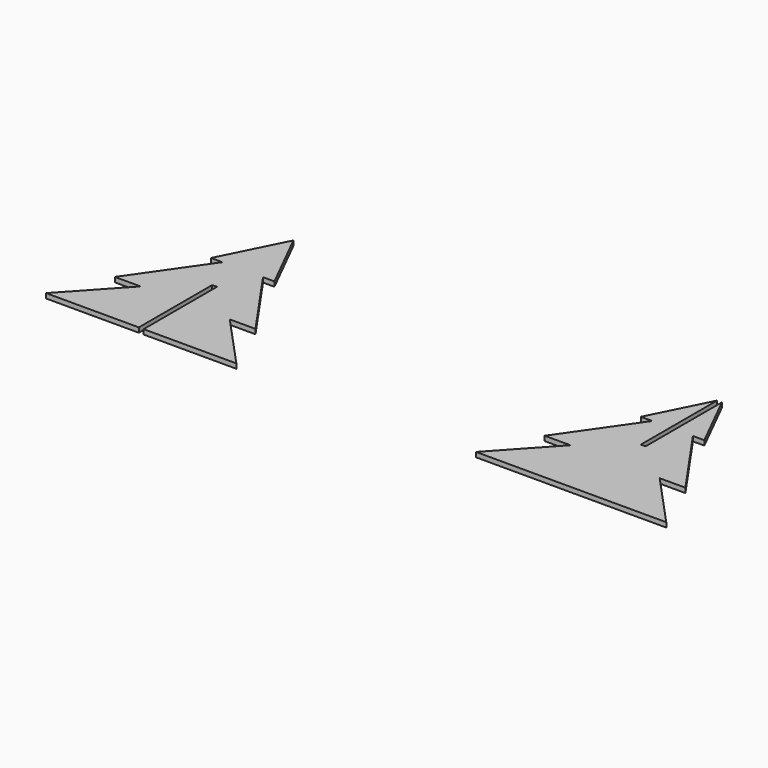
from build123d import *

# Parameters (mm, degrees)
F1_DEPTH = 1.5


with BuildPart() as f1:
    # F0 (on Top) → F1 (new body)
    with BuildSketch(Plane.XY):
        Polygon((-125.559425, 40), (-134.809425, 58.5), (-135.559425, 60), (-136.309425, 58.5), (-145.559425, 40), (-141.961627, 40), (-157.742291, 17.309345), (-149.633068, 17.309345), (-165.559425, 0), (-136.309425, 0), (-136.309425, 28.654673), (-136.309425, 28.904673), (-134.809425, 28.904673), (-134.809425, 28.654673), (-134.809425, 0), (-105.559425, 0), (-121.485782, 17.309345), (-113.376558, 17.309345), (-129.157222, 40), align=None)
        Polygon((-30, 0), (0, 0), (30, 0), (14.073643, 17.309345), (22.182867, 17.309345), (6.402202, 40), (10, 40), (0.75, 58.5), (0.75, 28.654673), (0.75, 28.404673), (-0.75, 28.404673), (-0.75, 28.654673), (-0.75, 58.5), (-10, 40), (-6.402202, 40), (-22.182867, 17.309345), (-14.073643, 17.309345), align=None)
    extrude(amount=F1_DEPTH)


solid = f1.part
